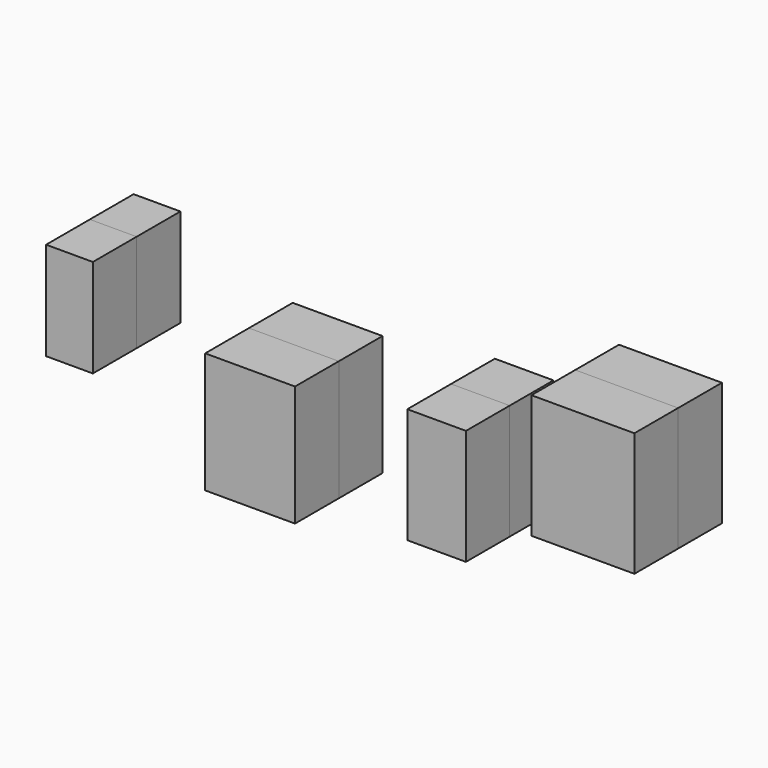
from build123d import *

# Parameters (mm, degrees)
F0_W        = 21.38535
F0_H        = 44.866281
F0_W_2      = 41.059875
F0_H_2      = 55.154471
F0_W_3      = 26.802976
F0_H_3      = 52.711906
F0_W_4      = 47.047779
F0_H_4      = 56.562428
F1_DEPTH    = 25
F1_FACE_W   = 21.38535
F1_FACE_H   = 44.866282
F1_FACE_W_2 = 41.059875
F1_FACE_H_2 = 55.154471
F1_FACE_W_3 = 26.802976
F1_FACE_H_3 = 52.711906
F1_FACE_W_4 = 47.047779
F1_FACE_H_4 = 56.562429
F2_DEPTH    = 25


with BuildPart() as f1:
    # F0 (on Front) → F1 (new body)
    with BuildSketch(Plane.XZ):
        with Locations((-113.627497, 19.663958)):
            Rectangle(F0_W, F0_H)
        with Locations((-31.080044, -5.550382)):
            Rectangle(F0_W_2, F0_H_2)
        with Locations((54.176217, 3.235822)):
            Rectangle(F0_W_3, F0_H_3)
        with Locations((121.041081, 25.389427)):
            Rectangle(F0_W_4, F0_H_4)
    extrude(amount=F1_DEPTH)


with BuildPart() as f2:
    # F1_face (on face) → F2 (new body)
    with BuildSketch(Plane(origin=(-113.627497, -25, 19.663958), x_dir=(1, 0, 0), z_dir=(0, -1, 0))):
        Rectangle(F1_FACE_W, F1_FACE_H)
        with Locations((82.547452, -25.21434)):
            Rectangle(F1_FACE_W_2, F1_FACE_H_2)
        with Locations((167.803714, -16.428137)):
            Rectangle(F1_FACE_W_3, F1_FACE_H_3)
        with Locations((234.668578, 5.725468)):
            Rectangle(F1_FACE_W_4, F1_FACE_H_4)
    extrude(amount=F2_DEPTH)


solid = Compound([f1.part, f2.part])
